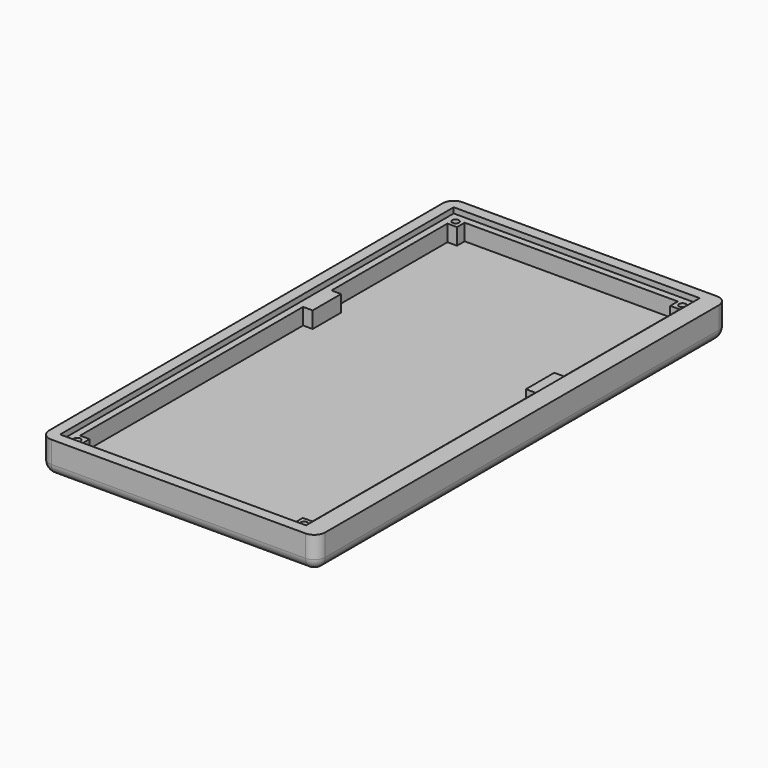
from build123d import *

# Parameters (mm, degrees)
F0_W      = 71.4375
F0_H      = 142.875
F1_DEPTH  = 6.35
F3_DEPTH  = 4.7625
F5_DEPTH  = 3.175
F6_R      = 3.175
F8_D      = 1.984375
F9_R      = 1.984375
F9_R_2    = 0.9921875
F10_DEPTH = 1.5875


with BuildPart() as f1:
    # F0 (on Top) → F1 (new body)
    with BuildSketch(Plane.XY):
        with BuildLine():
            Line((-40.084375, 71.4375), (-40.084375, 0))
            Line((-40.084375, 0), (-40.084375, -71.4375))
            ThreePointArc((-40.084375, -71.4375), (-39.1544390303, -73.6825640303), (-36.909375, -74.6125))
            Line((-36.909375, -74.6125), (36.909375, -74.6125))
            ThreePointArc((36.909375, -74.6125), (39.1544390303, -73.6825640303), (40.084375, -71.4375))
            Line((40.084375, -71.4375), (40.084375, 71.4375))
            ThreePointArc((40.084375, 71.4375), (39.1544390303, 73.6825640303), (36.909375, 74.6125))
            Line((36.909375, 74.6125), (-36.909375, 74.6125))
            ThreePointArc((-36.909375, 74.6125), (-39.1544390303, 73.6825640303), (-40.084375, 71.4375))
        make_face()
        with Locations((-1.190625, 0)):
            Rectangle(F0_W, F0_H, mode=Mode.SUBTRACT)
    extrude(amount=F1_DEPTH)

    # F2 (on face) → F3 (join)
    with BuildSketch(Plane(origin=(0, 0, 0), x_dir=(1, 0, 0), z_dir=(0, 0, -1))):
        with BuildLine():
            Line((-40.084375, 71.4375), (-40.084375, -71.4375))
            ThreePointArc((-40.084375, -71.4375), (-39.1544390303, -73.6825640303), (-36.909375, -74.6125))
            Line((-36.909375, -74.6125), (36.909375, -74.6125))
            ThreePointArc((36.909375, -74.6125), (39.1544390303, -73.6825640303), (40.084375, -71.4375))
            Line((40.084375, -71.4375), (40.084375, 71.4375))
            ThreePointArc((40.084375, 71.4375), (39.1544390303, 73.6825640303), (36.909375, 74.6125))
            Line((36.909375, 74.6125), (-36.909375, 74.6125))
            ThreePointArc((-36.909375, 74.6125), (-39.1544390303, 73.6825640303), (-40.084375, 71.4375))
        make_face()
        Polygon((-36.909375, -19.84375), (-36.909375, 71.4375), (34.528125, 71.4375), (34.528125, -19.84375), (34.528125, -71.4375), (-36.909375, -71.4375), align=None, mode=Mode.SUBTRACT)
        Polygon((34.528125, 71.4375), (-36.909375, 71.4375), (-36.909375, -19.84375), (-32.146875, -19.84375), (-32.146875, -14.2875), (-34.925, -14.2875), (-34.925, 15.08125), (-34.925, 24.60625), (-34.925, 66.675), (-32.146875, 66.675), (-32.146875, 69.453125), (29.765625, 69.453125), (29.765625, 66.675), (32.54375, 66.675), (32.54375, 24.60625), (32.54375, 15.08125), (32.54375, -14.2875), (29.765625, -14.2875), (29.765625, -19.84375), (34.528125, -19.84375), align=None)
        Polygon((-32.146875, -19.84375), (-36.909375, -19.84375), (-36.909375, -71.4375), (34.528125, -71.4375), (34.528125, -19.84375), (29.765625, -19.84375), (29.765625, -24.60625), (32.54375, -24.60625), (32.54375, -66.675), (29.765625, -66.675), (29.765625, -69.453125), (-32.146875, -69.453125), (-32.146875, -66.675), (-34.925, -66.675), (-34.925, -24.60625), (-32.146875, -24.60625), align=None)
        Polygon((34.528125, 71.4375), (-36.909375, 71.4375), (-36.909375, -19.84375), (-32.146875, -19.84375), (-32.146875, -14.2875), (-34.925, -14.2875), (-34.925, 15.08125), (-34.925, 24.60625), (-34.925, 66.675), (-32.146875, 66.675), (-32.146875, 69.453125), (29.765625, 69.453125), (29.765625, 66.675), (32.54375, 66.675), (32.54375, 24.60625), (32.54375, 15.08125), (32.54375, -14.2875), (29.765625, -14.2875), (29.765625, -19.84375), (34.528125, -19.84375), align=None)
    extrude(amount=-F3_DEPTH)

    # F4 (on face) → F5 (join)
    with BuildSketch(Plane(origin=(0, 0, 0), x_dir=(1, 0, 0), z_dir=(0, 0, -1))):
        with BuildLine():
            ThreePointArc((-36.909375, 74.6125), (-39.1544390303, 73.6825640303), (-40.084375, 71.4375))
            Line((-40.084375, 71.4375), (-40.084375, -71.4375))
            ThreePointArc((-40.084375, -71.4375), (-39.1544390303, -73.6825640303), (-36.909375, -74.6125))
            Line((-36.909375, -74.6125), (36.909375, -74.6125))
            ThreePointArc((36.909375, -74.6125), (39.1544390303, -73.6825640303), (40.084375, -71.4375))
            Line((40.084375, -71.4375), (40.084375, 71.4375))
            ThreePointArc((40.084375, 71.4375), (39.1544390303, 73.6825640303), (36.909375, 74.6125))
            Line((36.909375, 74.6125), (-36.909375, 74.6125))
        make_face()
        Polygon((29.765625, 66.675), (32.54375, 66.675), (32.54375, -14.2875), (29.765625, -14.2875), (29.765625, -24.60625), (32.54375, -24.60625), (32.54375, -66.675), (29.765625, -66.675), (29.765625, -69.453125), (-32.146875, -69.453125), (-32.146875, -66.675), (-34.925, -66.675), (-34.925, -24.60625), (-32.146875, -24.60625), (-32.146875, -14.2875), (-34.925, -14.2875), (-34.925, 66.675), (-32.146875, 66.675), (-32.146875, 69.453125), (29.765625, 69.453125), align=None, mode=Mode.SUBTRACT)
        Polygon((32.54375, -14.2875), (32.54375, 66.675), (29.765625, 66.675), (29.765625, 69.453125), (-32.146875, 69.453125), (-32.146875, 66.675), (-34.925, 66.675), (-34.925, -14.2875), (-32.146875, -14.2875), (-32.146875, -24.60625), (-34.925, -24.60625), (-34.925, -66.675), (-32.146875, -66.675), (-32.146875, -69.453125), (29.765625, -69.453125), (29.765625, -66.675), (32.54375, -66.675), (32.54375, -24.60625), (29.765625, -24.60625), (29.765625, -14.2875), align=None)
    extrude(amount=F5_DEPTH)

    # F6
    f6_edges = [f1.edges().sort_by_distance(p)[0] for p in [
        (-40.084375, 0, -3.175),
    ]]
    fillet(f6_edges, radius=F6_R)

    # F8 (through all)
    with Locations(Plane.XY.offset(4.7625)):
        with Locations((-34.13125, -68.659375), (31.75, -68.659375), (31.75, 68.659375), (-34.13125, 68.659375)):
            Hole(F8_D / 2)

    # F9 (on face) → F10 (cut)
    with BuildSketch(Plane(origin=(0, 0, -3.175), x_dir=(1, 0, 0), z_dir=(0, 0, -1))):
        with Locations((-34.13125, 68.659375)):
            Circle(F9_R)
        with Locations((-34.13125, 68.659375)):
            Circle(F9_R_2, mode=Mode.SUBTRACT)
        with Locations((31.75, 68.659375)):
            Circle(F9_R)
        with Locations((31.75, 68.659375)):
            Circle(F9_R_2, mode=Mode.SUBTRACT)
        with Locations((-34.13125, -68.659375)):
            Circle(F9_R)
        with Locations((-34.13125, -68.659375)):
            Circle(F9_R_2, mode=Mode.SUBTRACT)
        with Locations((31.75, -68.659375)):
            Circle(F9_R)
        with Locations((31.75, -68.659375)):
            Circle(F9_R_2, mode=Mode.SUBTRACT)
    extrude(amount=-F10_DEPTH, mode=Mode.SUBTRACT)


solid = f1.part
